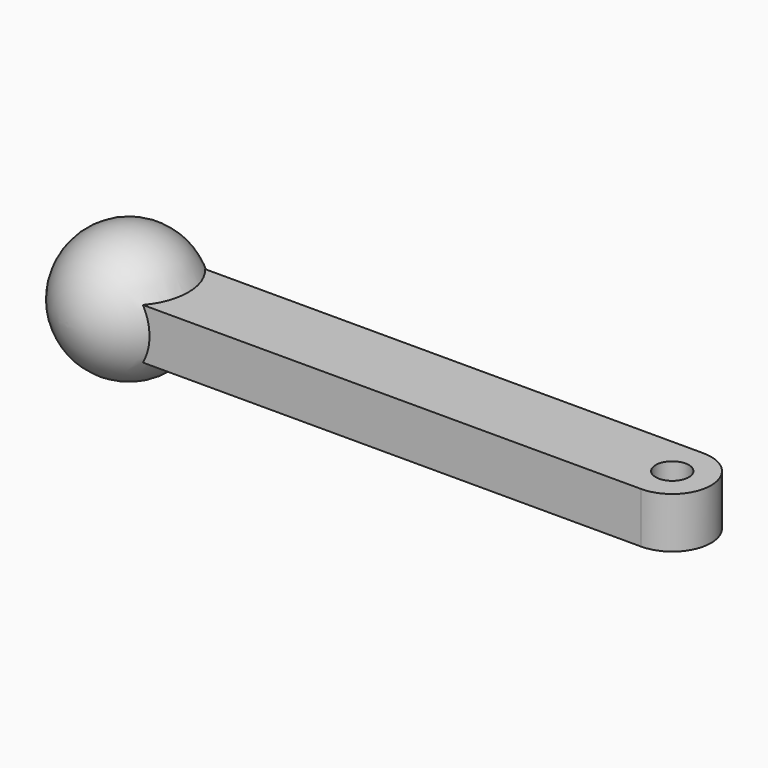
from build123d import *

# Parameters (mm, degrees)
SKETCH_R  = 0.16
PAD_DEPTH = 0.245


with BuildPart() as part:
    # Sketch → Pad (new body, symmetric)
    with BuildSketch(Plane.XY):
        with BuildLine():
            Line((-2.625, 0.375), (2.625, 0.375))
            ThreePointArc((2.625, -0.375), (3, 0), (2.625, 0.375))
            Line((2.625, -0.375), (-2.625, -0.375))
            ThreePointArc((-2.625, 0.375), (-3, 0), (-2.625, -0.375))
        make_face()
        with Locations((2.625, 0)):
            Circle(SKETCH_R, mode=Mode.SUBTRACT)
    extrude(amount=PAD_DEPTH, both=True)

    # Sketch001 → Revolution (revolve)
    with BuildSketch(Plane.XY):
        with BuildLine():
            Line((-2.625, 0.625), (-2.625, 0))
            Line((-2.625, 0), (-2.625, -0.625))
            ThreePointArc((-2.625, 0.625), (-3.25, 0), (-2.625, -0.625))
        make_face()
    revolve(axis=Axis((-2.625, 0, 0), (0, -1, 0)))


solid = part.part
